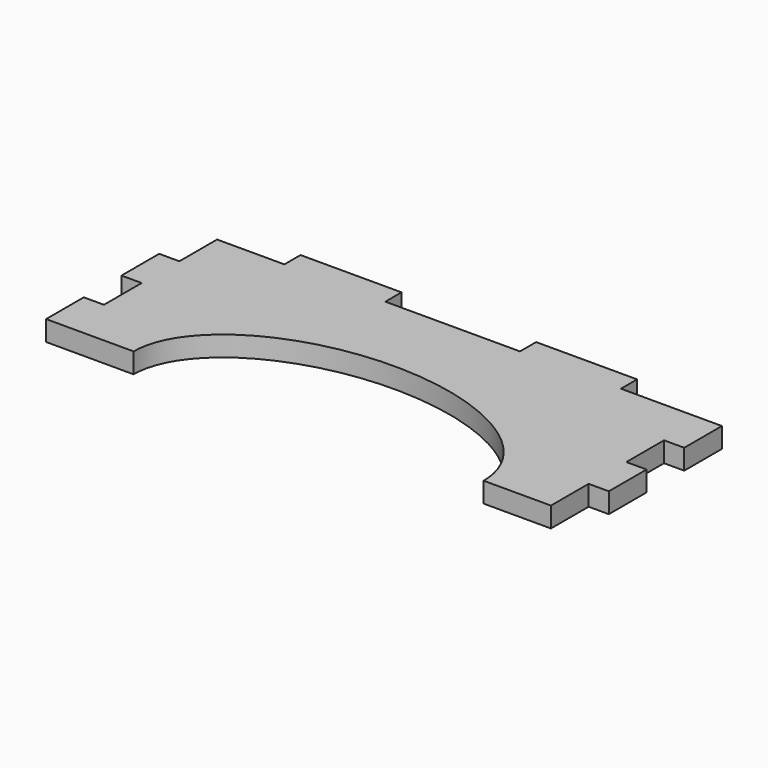
from build123d import *

# Parameters (mm, degrees)
F1_DEPTH = 3


with BuildPart() as f1:
    # F0 (on Top) → F1 (new body)
    with BuildSketch(Plane.XY):
        with BuildLine():
            Line((-26, 0), (-36, 0))
            Line((-36, 0), (-36, -7))
            Line((-36, -7), (-39, -7))
            Line((-39, -7), (-39, -14))
            Line((-39, -14), (-36, -14))
            Line((-36, -14), (-36, -21))
            Line((-36, -21), (-39, -21))
            Line((-39, -21), (-39, -28))
            Line((-39, -28), (-26, -28))
            add(Edge.make_bspline(
                [(26, -28), (26, -12), (0, -12), (-26, -12), (-26, -28)],
                knots=[3.1415926536, 3.1415926536, 3.1415926536, 4.7123889804, 4.7123889804, 6.2831853072, 6.2831853072, 6.2831853072], degree=2, weights=[1, 0.7071067812, 1, 0.7071067812, 1]))
            Line((26, -28), (36, -28))
            Line((36, -28), (36, -21))
            Line((36, -21), (39, -21))
            Line((39, -21), (39, -14))
            Line((39, -14), (36, -14))
            Line((36, -14), (36, -7))
            Line((36, -7), (39, -7))
            Line((39, -7), (39, 0))
            Line((39, 0), (24, 0))
            Line((24, 0), (24, 3))
            Line((24, 3), (9, 3))
            Line((9, 3), (9, 0))
            Line((9, 0), (-11, 0))
            Line((-11, 0), (-11, 3))
            Line((-11, 3), (-26, 3))
            Line((-26, 3), (-26, 0))
        make_face()
    extrude(amount=F1_DEPTH)


solid = f1.part
